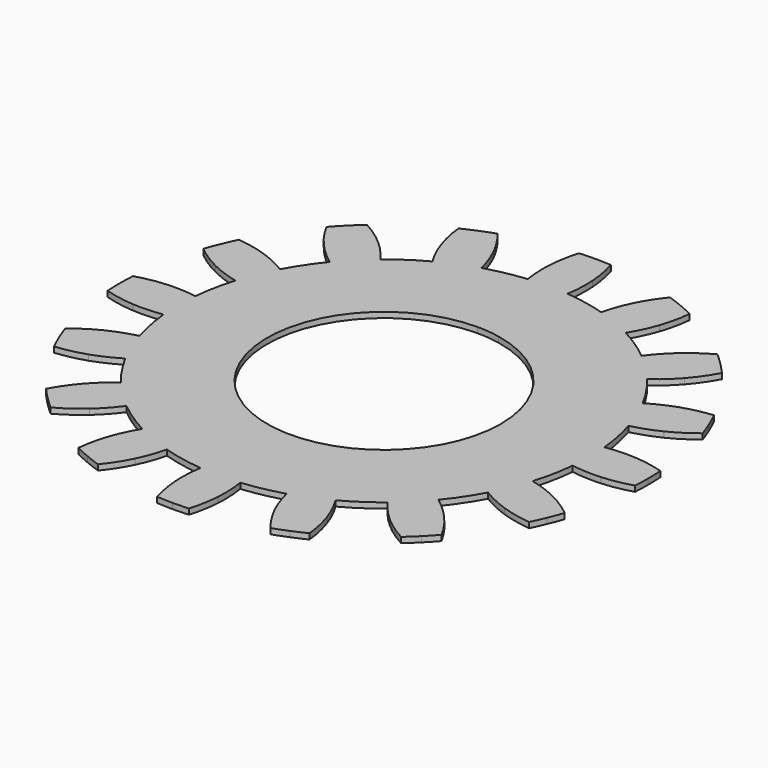
from build123d import *

# Parameters (mm, degrees)
F1_DEPTH = 0.1


with BuildPart() as f1:
    # F0 (on Top) → F1 (new body)
    with BuildSketch(Plane.XY):
        with BuildLine():
            ThreePointArc((4.2824765429, 2.0836988528), (4.0119131975, 2.0413458709), (3.7480393175, 1.9680732672))
            ThreePointArc((3.7480393175, 1.9680732672), (3.911090021, 1.6200265303), (4.0419019707, 1.2586260645))
            ThreePointArc((4.0419019707, 1.2586260645), (4.2803005355, 1.3934015194), (4.5015657926, 1.554770615))
            ThreePointArc((4.5015657926, 1.554770615), (4.4527841336, 1.6894140137), (4.3999762736, 1.8225298466))
            ThreePointArc((4.3999762736, 1.8225298466), (4.3431899613, 1.9539977507), (4.2824765429, 2.0836988528))
        make_face()
        with BuildLine():
            ThreePointArc((3.1590953975, 3.5639195445), (2.9253352449, 3.4212503817), (2.7095877795, 3.2525751608))
            ThreePointArc((2.7095877795, 3.2525751608), (2.993418707, 2.993418707), (3.2525751608, 2.7095877795))
            ThreePointArc((3.2525751608, 2.7095877795), (3.4212503817, 2.9253352449), (3.5639195445, 3.1590953975))
            ThreePointArc((3.5639195445, 3.1590953975), (3.4673253703, 3.264821745), (3.3675960454, 3.3675960454))
            ThreePointArc((3.3675960454, 3.3675960454), (3.264821745, 3.4673253703), (3.1590953975, 3.5639195445))
        make_face()
        with BuildLine():
            ThreePointArc((1.554770615, 4.5015657926), (1.3934015194, 4.2803005355), (1.2586260645, 4.0419019707))
            ThreePointArc((1.2586260645, 4.0419019707), (1.6200265303, 3.911090021), (1.9680732672, 3.7480393175))
            ThreePointArc((1.9680732672, 3.7480393175), (2.0413458709, 4.0119131975), (2.0836988528, 4.2824765429))
            ThreePointArc((2.0836988528, 4.2824765429), (1.9539977507, 4.3431899613), (1.8225298466, 4.3999762736))
            ThreePointArc((1.8225298466, 4.3999762736), (1.6894140137, 4.4527841336), (1.554770615, 4.5015657926))
        make_face()
        with BuildLine():
            Line((0, 4.7625), (0, 4.2333333333))
            ThreePointArc((0, 4.2333333333), (0.19217314, 4.2289692119), (0.3839500594, 4.2158858456))
            ThreePointArc((0.3839500594, 4.2158858456), (0.3506649561, 4.4877137339), (0.2862538995, 4.7538894555))
            ThreePointArc((0.2862538995, 4.7538894555), (0.1431916866, 4.7603468772), (0, 4.7625))
        make_face()
        with BuildLine():
            ThreePointArc((-0.3839500594, 4.2158858456), (-0.19217314, 4.2289692119), (0, 4.2333333333))
            Line((0, 4.2333333333), (0, 4.7625))
            ThreePointArc((0, 4.7625), (-0.1431916866, 4.7603468772), (-0.2862538995, 4.7538894555))
            ThreePointArc((-0.2862538995, 4.7538894555), (-0.3506649561, 4.4877137339), (-0.3839500594, 4.2158858456))
        make_face()
        with BuildLine():
            ThreePointArc((-1.9680732672, 3.7480393175), (-1.6200265303, 3.911090021), (-1.2586260645, 4.0419019707))
            ThreePointArc((-1.2586260645, 4.0419019707), (-1.3934015194, 4.2803005355), (-1.554770615, 4.5015657926))
            ThreePointArc((-1.554770615, 4.5015657926), (-1.6894140137, 4.4527841336), (-1.8225298466, 4.3999762736))
            ThreePointArc((-1.8225298466, 4.3999762736), (-1.9539977507, 4.3431899613), (-2.0836988528, 4.2824765429))
            ThreePointArc((-2.0836988528, 4.2824765429), (-2.0413458709, 4.0119131975), (-1.9680732672, 3.7480393175))
        make_face()
        with BuildLine():
            ThreePointArc((-3.2525751608, 2.7095877795), (-2.993418707, 2.993418707), (-2.7095877795, 3.2525751608))
            ThreePointArc((-2.7095877795, 3.2525751608), (-2.9253352449, 3.4212503817), (-3.1590953975, 3.5639195445))
            ThreePointArc((-3.1590953975, 3.5639195445), (-3.264821745, 3.4673253703), (-3.3675960454, 3.3675960454))
            ThreePointArc((-3.3675960454, 3.3675960454), (-3.4673253703, 3.264821745), (-3.5639195445, 3.1590953975))
            ThreePointArc((-3.5639195445, 3.1590953975), (-3.4212503817, 2.9253352449), (-3.2525751608, 2.7095877795))
        make_face()
        with BuildLine():
            ThreePointArc((-4.0419019707, 1.2586260645), (-3.911090021, 1.6200265303), (-3.7480393175, 1.9680732672))
            ThreePointArc((-3.7480393175, 1.9680732672), (-4.0119131975, 2.0413458709), (-4.2824765429, 2.0836988528))
            ThreePointArc((-4.2824765429, 2.0836988528), (-4.3431899613, 1.9539977507), (-4.3999762736, 1.8225298466))
            ThreePointArc((-4.3999762736, 1.8225298466), (-4.4527841336, 1.6894140137), (-4.5015657926, 1.554770615))
            ThreePointArc((-4.5015657926, 1.554770615), (-4.2803005355, 1.3934015194), (-4.0419019707, 1.2586260645))
        make_face()
        with BuildLine():
            ThreePointArc((-4.2158858456, -0.3839500594), (-4.2333333333, 0), (-4.2158858456, 0.3839500594))
            ThreePointArc((-4.2158858456, 0.3839500594), (-4.4877137339, 0.3506649561), (-4.7538894555, 0.2862538995))
            ThreePointArc((-4.7538894555, 0.2862538995), (-4.7603468772, 0.1431916866), (-4.7625, 0))
            ThreePointArc((-4.7625, 0), (-4.7603468772, -0.1431916866), (-4.7538894555, -0.2862538995))
            ThreePointArc((-4.7538894555, -0.2862538995), (-4.4877137339, -0.3506649561), (-4.2158858456, -0.3839500594))
        make_face()
        with BuildLine():
            ThreePointArc((-3.7480393175, -1.9680732672), (-3.911090021, -1.6200265303), (-4.0419019707, -1.2586260645))
            ThreePointArc((-4.0419019707, -1.2586260645), (-4.2803005355, -1.3934015194), (-4.5015657926, -1.554770615))
            ThreePointArc((-4.5015657926, -1.554770615), (-4.4527841336, -1.6894140137), (-4.3999762736, -1.8225298466))
            ThreePointArc((-4.3999762736, -1.8225298466), (-4.3431899613, -1.9539977507), (-4.2824765429, -2.0836988528))
            ThreePointArc((-4.2824765429, -2.0836988528), (-4.0119131975, -2.0413458709), (-3.7480393175, -1.9680732672))
        make_face()
        with BuildLine():
            ThreePointArc((-2.7095877795, -3.2525751608), (-2.993418707, -2.993418707), (-3.2525751608, -2.7095877795))
            ThreePointArc((-3.2525751608, -2.7095877795), (-3.4212503817, -2.9253352449), (-3.5639195445, -3.1590953975))
            ThreePointArc((-3.5639195445, -3.1590953975), (-3.4673253703, -3.264821745), (-3.3675960454, -3.3675960454))
            ThreePointArc((-3.3675960454, -3.3675960454), (-3.264821745, -3.4673253703), (-3.1590953975, -3.5639195445))
            ThreePointArc((-3.1590953975, -3.5639195445), (-2.9253352449, -3.4212503817), (-2.7095877795, -3.2525751608))
        make_face()
        with BuildLine():
            ThreePointArc((-1.2586260645, -4.0419019707), (-1.6200265303, -3.911090021), (-1.9680732672, -3.7480393175))
            ThreePointArc((-1.9680732672, -3.7480393175), (-2.0413458709, -4.0119131975), (-2.0836988528, -4.2824765429))
            ThreePointArc((-2.0836988528, -4.2824765429), (-1.9539977507, -4.3431899613), (-1.8225298466, -4.3999762736))
            ThreePointArc((-1.8225298466, -4.3999762736), (-1.6894140137, -4.4527841336), (-1.554770615, -4.5015657926))
            ThreePointArc((-1.554770615, -4.5015657926), (-1.3934015194, -4.2803005355), (-1.2586260645, -4.0419019707))
        make_face()
        with BuildLine():
            ThreePointArc((0.2862538995, -4.7538894555), (0.3506649561, -4.4877137339), (0.3839500594, -4.2158858456))
            ThreePointArc((0.3839500594, -4.2158858456), (0, -4.2333333333), (-0.3839500594, -4.2158858456))
            ThreePointArc((-0.3839500594, -4.2158858456), (-0.3506649561, -4.4877137339), (-0.2862538995, -4.7538894555))
            ThreePointArc((-0.2862538995, -4.7538894555), (-0.1431916866, -4.7603468772), (0, -4.7625))
            ThreePointArc((0, -4.7625), (0.1431916866, -4.7603468772), (0.2862538995, -4.7538894555))
        make_face()
        with BuildLine():
            ThreePointArc((2.0836988528, -4.2824765429), (2.0413458709, -4.0119131975), (1.9680732672, -3.7480393175))
            ThreePointArc((1.9680732672, -3.7480393175), (1.6200265303, -3.911090021), (1.2586260645, -4.0419019707))
            ThreePointArc((1.2586260645, -4.0419019707), (1.3934015194, -4.2803005355), (1.554770615, -4.5015657926))
            ThreePointArc((1.554770615, -4.5015657926), (1.6894140137, -4.4527841336), (1.8225298466, -4.3999762736))
            ThreePointArc((1.8225298466, -4.3999762736), (1.9539977507, -4.3431899613), (2.0836988528, -4.2824765429))
        make_face()
        with BuildLine():
            ThreePointArc((3.5639195445, -3.1590953975), (3.4212503817, -2.9253352449), (3.2525751608, -2.7095877795))
            ThreePointArc((3.2525751608, -2.7095877795), (2.993418707, -2.993418707), (2.7095877795, -3.2525751608))
            ThreePointArc((2.7095877795, -3.2525751608), (2.9253352449, -3.4212503817), (3.1590953975, -3.5639195445))
            ThreePointArc((3.1590953975, -3.5639195445), (3.264821745, -3.4673253703), (3.3675960454, -3.3675960454))
            ThreePointArc((3.3675960454, -3.3675960454), (3.4673253703, -3.264821745), (3.5639195445, -3.1590953975))
        make_face()
        with BuildLine():
            ThreePointArc((4.5015657926, -1.554770615), (4.2803005355, -1.3934015194), (4.0419019707, -1.2586260645))
            ThreePointArc((4.0419019707, -1.2586260645), (3.911090021, -1.6200265303), (3.7480393175, -1.9680732672))
            ThreePointArc((3.7480393175, -1.9680732672), (4.0119131975, -2.0413458709), (4.2824765429, -2.0836988528))
            ThreePointArc((4.2824765429, -2.0836988528), (4.3431899613, -1.9539977507), (4.3999762736, -1.8225298466))
            ThreePointArc((4.3999762736, -1.8225298466), (4.4527841336, -1.6894140137), (4.5015657926, -1.554770615))
        make_face()
        with BuildLine():
            ThreePointArc((4.7538894555, 0.2862538995), (4.4877137339, 0.3506649561), (4.2158858456, 0.3839500594))
            ThreePointArc((4.2158858456, 0.3839500594), (4.2289692119, 0.19217314), (4.2333333333, 0))
            ThreePointArc((4.2333333333, 0), (4.2289692119, -0.19217314), (4.2158858456, -0.3839500594))
            ThreePointArc((4.2158858456, -0.3839500594), (4.4877137339, -0.3506649561), (4.7538894555, -0.2862538995))
            ThreePointArc((4.7538894555, -0.2862538995), (4.7603468772, -0.1431916866), (4.7625, 0))
            ThreePointArc((4.7625, 0), (4.7603468772, 0.1431916866), (4.7538894555, 0.2862538995))
        make_face()
        with BuildLine():
            ThreePointArc((-3.543355084, 1.0795765111), (-3.4222037683, 1.4175232141), (-3.2689062798, 1.7421545363))
            ThreePointArc((-3.2689062798, 1.7421545363), (-3.5021430015, 1.8685382642), (-3.7480393175, 1.9680732672))
            ThreePointArc((-3.7480393175, 1.9680732672), (-3.911090021, 1.6200265303), (-4.0419019707, 1.2586260645))
            ThreePointArc((-4.0419019707, 1.2586260645), (-3.7976451426, 1.1551329875), (-3.543355084, 1.0795765111))
        make_face()
        with BuildLine():
            ThreePointArc((-3.6867692833, -0.3585846433), (-3.7041666667, 0), (-3.6867692833, 0.3585846433))
            ThreePointArc((-3.6867692833, 0.3585846433), (-3.9506168755, 0.3860921536), (-4.2158858456, 0.3839500594))
            ThreePointArc((-4.2158858456, 0.3839500594), (-4.2333333333, 0), (-4.2158858456, -0.3839500594))
            ThreePointArc((-4.2158858456, -0.3839500594), (-3.9506168755, -0.3860921536), (-3.6867692833, -0.3585846433))
        make_face()
        with BuildLine():
            ThreePointArc((-3.2689062798, -1.7421545363), (-3.4222037683, -1.4175232141), (-3.543355084, -1.0795765111))
            ThreePointArc((-3.543355084, -1.0795765111), (-3.7976451426, -1.1551329875), (-4.0419019707, -1.2586260645))
            ThreePointArc((-4.0419019707, -1.2586260645), (-3.911090021, -1.6200265303), (-3.7480393175, -1.9680732672))
            ThreePointArc((-3.7480393175, -1.9680732672), (-3.5021430015, -1.8685382642), (-3.2689062798, -1.7421545363))
        make_face()
        with BuildLine():
            ThreePointArc((-2.353381928, -2.8604971938), (-2.6192413686, -2.6192413686), (-2.8604971938, -2.353381928))
            ThreePointArc((-2.8604971938, -2.353381928), (-3.0665163625, -2.5204996026), (-3.2525751608, -2.7095877795))
            ThreePointArc((-3.2525751608, -2.7095877795), (-2.993418707, -2.993418707), (-2.7095877795, -3.2525751608))
            ThreePointArc((-2.7095877795, -3.2525751608), (-2.5204996026, -3.0665163625), (-2.353381928, -2.8604971938))
        make_face()
        with BuildLine():
            ThreePointArc((-1.0795765111, -3.543355084), (-1.4175232141, -3.4222037683), (-1.7421545363, -3.2689062798))
            ThreePointArc((-1.7421545363, -3.2689062798), (-1.8685382642, -3.5021430015), (-1.9680732672, -3.7480393175))
            ThreePointArc((-1.9680732672, -3.7480393175), (-1.6200265303, -3.911090021), (-1.2586260645, -4.0419019707))
            ThreePointArc((-1.2586260645, -4.0419019707), (-1.1551329875, -3.7976451426), (-1.0795765111, -3.543355084))
        make_face()
        with BuildLine():
            ThreePointArc((0.3839500594, -4.2158858456), (0.3860921536, -3.9506168755), (0.3585846433, -3.6867692833))
            ThreePointArc((0.3585846433, -3.6867692833), (0, -3.7041666667), (-0.3585846433, -3.6867692833))
            ThreePointArc((-0.3585846433, -3.6867692833), (-0.3860921536, -3.9506168755), (-0.3839500594, -4.2158858456))
            ThreePointArc((-0.3839500594, -4.2158858456), (0, -4.2333333333), (0.3839500594, -4.2158858456))
        make_face()
        with BuildLine():
            ThreePointArc((1.9680732672, -3.7480393175), (1.8685382642, -3.5021430015), (1.7421545363, -3.2689062798))
            ThreePointArc((1.7421545363, -3.2689062798), (1.4175232141, -3.4222037683), (1.0795765111, -3.543355084))
            ThreePointArc((1.0795765111, -3.543355084), (1.1551329875, -3.7976451426), (1.2586260645, -4.0419019707))
            ThreePointArc((1.2586260645, -4.0419019707), (1.6200265303, -3.911090021), (1.9680732672, -3.7480393175))
        make_face()
        with BuildLine():
            ThreePointArc((3.2525751608, -2.7095877795), (3.0665163625, -2.5204996026), (2.8604971938, -2.353381928))
            ThreePointArc((2.8604971938, -2.353381928), (2.6192413686, -2.6192413686), (2.353381928, -2.8604971938))
            ThreePointArc((2.353381928, -2.8604971938), (2.5204996026, -3.0665163625), (2.7095877795, -3.2525751608))
            ThreePointArc((2.7095877795, -3.2525751608), (2.993418707, -2.993418707), (3.2525751608, -2.7095877795))
        make_face()
        with BuildLine():
            ThreePointArc((4.0419019707, -1.2586260645), (3.7976451426, -1.1551329875), (3.543355084, -1.0795765111))
            ThreePointArc((3.543355084, -1.0795765111), (3.4222037683, -1.4175232141), (3.2689062798, -1.7421545363))
            ThreePointArc((3.2689062798, -1.7421545363), (3.5021430015, -1.8685382642), (3.7480393175, -1.9680732672))
            ThreePointArc((3.7480393175, -1.9680732672), (3.911090021, -1.6200265303), (4.0419019707, -1.2586260645))
        make_face()
        with BuildLine():
            ThreePointArc((4.2158858456, 0.3839500594), (3.9506168755, 0.3860921536), (3.6867692833, 0.3585846433))
            ThreePointArc((3.6867692833, 0.3585846433), (3.6998147644, 0.179503214), (3.7041666667, 0))
            ThreePointArc((3.7041666667, 0), (3.6998147644, -0.179503214), (3.6867692833, -0.3585846433))
            ThreePointArc((3.6867692833, -0.3585846433), (3.9506168755, -0.3860921536), (4.2158858456, -0.3839500594))
            ThreePointArc((4.2158858456, -0.3839500594), (4.2289692119, -0.19217314), (4.2333333333, 0))
            ThreePointArc((4.2333333333, 0), (4.2289692119, 0.19217314), (4.2158858456, 0.3839500594))
        make_face()
        with BuildLine():
            ThreePointArc((3.7480393175, 1.9680732672), (3.5021430015, 1.8685382642), (3.2689062798, 1.7421545363))
            ThreePointArc((3.2689062798, 1.7421545363), (3.4222037683, 1.4175232141), (3.543355084, 1.0795765111))
            ThreePointArc((3.543355084, 1.0795765111), (3.7976451426, 1.1551329875), (4.0419019707, 1.2586260645))
            ThreePointArc((4.0419019707, 1.2586260645), (3.911090021, 1.6200265303), (3.7480393175, 1.9680732672))
        make_face()
        with BuildLine():
            ThreePointArc((2.7095877795, 3.2525751608), (2.5204996026, 3.0665163625), (2.353381928, 2.8604971938))
            ThreePointArc((2.353381928, 2.8604971938), (2.6192413686, 2.6192413686), (2.8604971938, 2.353381928))
            ThreePointArc((2.8604971938, 2.353381928), (3.0665163625, 2.5204996026), (3.2525751608, 2.7095877795))
            ThreePointArc((3.2525751608, 2.7095877795), (2.993418707, 2.993418707), (2.7095877795, 3.2525751608))
        make_face()
        with BuildLine():
            ThreePointArc((1.2586260645, 4.0419019707), (1.1551329875, 3.7976451426), (1.0795765111, 3.543355084))
            ThreePointArc((1.0795765111, 3.543355084), (1.4175232141, 3.4222037683), (1.7421545363, 3.2689062798))
            ThreePointArc((1.7421545363, 3.2689062798), (1.8685382642, 3.5021430015), (1.9680732672, 3.7480393175))
            ThreePointArc((1.9680732672, 3.7480393175), (1.6200265303, 3.911090021), (1.2586260645, 4.0419019707))
        make_face()
        with BuildLine():
            Line((0, 4.2333333333), (0, 3.7041666667))
            ThreePointArc((0, 3.7041666667), (0.179503214, 3.6998147644), (0.3585846433, 3.6867692833))
            ThreePointArc((0.3585846433, 3.6867692833), (0.3860921536, 3.9506168755), (0.3839500594, 4.2158858456))
            ThreePointArc((0.3839500594, 4.2158858456), (0.19217314, 4.2289692119), (0, 4.2333333333))
        make_face()
        with BuildLine():
            ThreePointArc((-0.3585846433, 3.6867692833), (-0.179503214, 3.6998147644), (0, 3.7041666667))
            Line((0, 3.7041666667), (0, 4.2333333333))
            ThreePointArc((0, 4.2333333333), (-0.19217314, 4.2289692119), (-0.3839500594, 4.2158858456))
            ThreePointArc((-0.3839500594, 4.2158858456), (-0.3860921536, 3.9506168755), (-0.3585846433, 3.6867692833))
        make_face()
        with BuildLine():
            ThreePointArc((-1.7421545363, 3.2689062798), (-1.4175232141, 3.4222037683), (-1.0795765111, 3.543355084))
            ThreePointArc((-1.0795765111, 3.543355084), (-1.1551329875, 3.7976451426), (-1.2586260645, 4.0419019707))
            ThreePointArc((-1.2586260645, 4.0419019707), (-1.6200265303, 3.911090021), (-1.9680732672, 3.7480393175))
            ThreePointArc((-1.9680732672, 3.7480393175), (-1.8685382642, 3.5021430015), (-1.7421545363, 3.2689062798))
        make_face()
        with BuildLine():
            ThreePointArc((-2.8604971938, 2.353381928), (-2.6192413686, 2.6192413686), (-2.353381928, 2.8604971938))
            ThreePointArc((-2.353381928, 2.8604971938), (-2.5204996026, 3.0665163625), (-2.7095877795, 3.2525751608))
            ThreePointArc((-2.7095877795, 3.2525751608), (-2.993418707, 2.993418707), (-3.2525751608, 2.7095877795))
            ThreePointArc((-3.2525751608, 2.7095877795), (-3.0665163625, 2.5204996026), (-2.8604971938, 2.353381928))
        make_face()
        with BuildLine():
            Line((0.7226470678, 3.6329921428), (0.4106651278, 2.0645530152))
            ThreePointArc((0.4106651278, 2.0645530152), (1.6271870043, 1.3353978632), (2.105, 0))
            ThreePointArc((2.105, 0), (-1.4884597744, -1.4884597744), (0, 2.105))
            Line((0, 2.105), (0, 3.7041666667))
            ThreePointArc((0, 3.7041666667), (-0.179503214, 3.6998147644), (-0.3585846433, 3.6867692833))
            ThreePointArc((-0.3585846433, 3.6867692833), (-0.7226470678, 3.6329921428), (-1.0795765111, 3.543355084))
            ThreePointArc((-1.0795765111, 3.543355084), (-1.4175232141, 3.4222037683), (-1.7421545363, 3.2689062798))
            ThreePointArc((-1.7421545363, 3.2689062798), (-2.0579247381, 3.0799020222), (-2.353381928, 2.8604971938))
            ThreePointArc((-2.353381928, 2.8604971938), (-2.6192413686, 2.6192413686), (-2.8604971938, 2.353381928))
            ThreePointArc((-2.8604971938, 2.353381928), (-3.0799020222, 2.0579247381), (-3.2689062798, 1.7421545363))
            ThreePointArc((-3.2689062798, 1.7421545363), (-3.4222037683, 1.4175232141), (-3.543355084, 1.0795765111))
            ThreePointArc((-3.543355084, 1.0795765111), (-3.6329921428, 0.7226470678), (-3.6867692833, 0.3585846433))
            ThreePointArc((-3.6867692833, 0.3585846433), (-3.7041666667, 0), (-3.6867692833, -0.3585846433))
            ThreePointArc((-3.6867692833, -0.3585846433), (-3.6329921428, -0.7226470678), (-3.543355084, -1.0795765111))
            ThreePointArc((-3.543355084, -1.0795765111), (-3.4222037683, -1.4175232141), (-3.2689062798, -1.7421545363))
            ThreePointArc((-3.2689062798, -1.7421545363), (-3.0799020222, -2.0579247381), (-2.8604971938, -2.353381928))
            ThreePointArc((-2.8604971938, -2.353381928), (-2.6192413686, -2.6192413686), (-2.353381928, -2.8604971938))
            ThreePointArc((-2.353381928, -2.8604971938), (-2.0579247381, -3.0799020222), (-1.7421545363, -3.2689062798))
            ThreePointArc((-1.7421545363, -3.2689062798), (-1.4175232141, -3.4222037683), (-1.0795765111, -3.543355084))
            ThreePointArc((-1.0795765111, -3.543355084), (-0.7226470678, -3.6329921428), (-0.3585846433, -3.6867692833))
            ThreePointArc((-0.3585846433, -3.6867692833), (0, -3.7041666667), (0.3585846433, -3.6867692833))
            ThreePointArc((0.3585846433, -3.6867692833), (0.7226470678, -3.6329921428), (1.0795765111, -3.543355084))
            ThreePointArc((1.0795765111, -3.543355084), (1.4175232141, -3.4222037683), (1.7421545363, -3.2689062798))
            ThreePointArc((1.7421545363, -3.2689062798), (2.0579247381, -3.0799020222), (2.353381928, -2.8604971938))
            ThreePointArc((2.353381928, -2.8604971938), (2.6192413686, -2.6192413686), (2.8604971938, -2.353381928))
            ThreePointArc((2.8604971938, -2.353381928), (3.0799020222, -2.0579247381), (3.2689062798, -1.7421545363))
            ThreePointArc((3.2689062798, -1.7421545363), (3.4222037683, -1.4175232141), (3.543355084, -1.0795765111))
            ThreePointArc((3.543355084, -1.0795765111), (3.6329921428, -0.7226470678), (3.6867692833, -0.3585846433))
            ThreePointArc((3.6867692833, -0.3585846433), (3.6998147644, -0.179503214), (3.7041666667, 0))
            ThreePointArc((3.7041666667, 0), (3.6998147644, 0.179503214), (3.6867692833, 0.3585846433))
            ThreePointArc((3.6867692833, 0.3585846433), (3.6329921428, 0.7226470678), (3.543355084, 1.0795765111))
            ThreePointArc((3.543355084, 1.0795765111), (3.4222037683, 1.4175232141), (3.2689062798, 1.7421545363))
            ThreePointArc((3.2689062798, 1.7421545363), (3.0799020222, 2.0579247381), (2.8604971938, 2.353381928))
            ThreePointArc((2.8604971938, 2.353381928), (2.6192413686, 2.6192413686), (2.353381928, 2.8604971938))
            ThreePointArc((2.353381928, 2.8604971938), (2.0579247381, 3.0799020222), (1.7421545363, 3.2689062798))
            ThreePointArc((1.7421545363, 3.2689062798), (1.4175232141, 3.4222037683), (1.0795765111, 3.543355084))
            ThreePointArc((1.0795765111, 3.543355084), (0.9022256689, 3.5926090153), (0.7226470678, 3.6329921428))
        make_face()
        with BuildLine():
            ThreePointArc((0, 2.105), (0.2063260804, 2.0948638496), (0.4106651278, 2.0645530152))
            Line((0.4106651278, 2.0645530152), (0.7226470678, 3.6329921428))
            ThreePointArc((0.7226470678, 3.6329921428), (0.5412841199, 3.6644047533), (0.3585846433, 3.6867692833))
            ThreePointArc((0.3585846433, 3.6867692833), (0.179503214, 3.6998147644), (0, 3.7041666667))
            Line((0, 3.7041666667), (0, 2.105))
        make_face()
    extrude(amount=F1_DEPTH)


solid = f1.part
